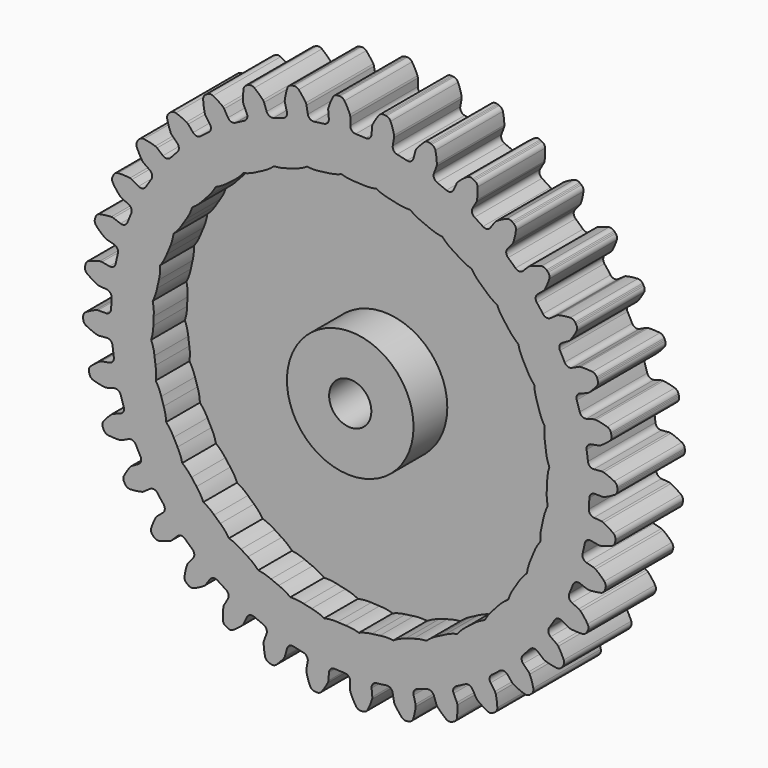
from build123d import *

# Parameters (mm, degrees)
F2_DEPTH = 12.7
F3_R     = 3.175
F4_DEPTH = 12.701
F5_T     = -6.35


with BuildPart() as f2:
    # F1 (on Front) → F2 (new body)
    with BuildSketch(Plane.XZ):
        with BuildLine():
            ThreePointArc((-3.2159719012, 36.6585852996), (-3.3999882129, 36.0632175449), (-3.9477642676, 35.766121331))
            ThreePointArc((-3.9477642676, 35.766121331), (-4.6967675633, 35.6754909179), (-5.443706067, 35.5691768535))
            ThreePointArc((-5.443706067, 35.5691768535), (-6.049711265, 35.7143748818), (-6.3815498887, 36.2418290459))
            Line((-6.3815498887, 36.2418290459), (-6.580178389, 37.3683072486))
            ThreePointArc((-6.580178389, 37.3683072486), (-6.6224915031, 37.520858425), (-6.6931472929, 37.6625271245))
            ThreePointArc((-6.6931472929, 37.6625271245), (-7.1925400532, 38.3850287688), (-7.7563603692, 39.0584590966))
            ThreePointArc((-7.7563603692, 39.0584590966), (-8.1103285962, 39.285403416), (-8.5301632138, 39.3085577628))
            Line((-8.5301632138, 39.3085577628), (-8.7064756263, 39.2723732346))
            Line((-8.7064756263, 39.2723732346), (-8.8815611808, 39.2306547082))
            ThreePointArc((-8.8815611808, 39.2306547082), (-9.2522751134, 39.0322399655), (-9.4771684585, 38.6769651238))
            ThreePointArc((-9.4771684585, 38.6769651238), (-9.7035592431, 37.8283492108), (-9.8508203978, 36.9624878435))
            ThreePointArc((-9.8508203978, 36.9624878435), (-9.85498451, 36.8042319718), (-9.8288623016, 36.648091359))
            Line((-9.8288623016, 36.648091359), (-9.5328105949, 35.5432113574))
            ThreePointArc((-9.5328105949, 35.5432113574), (-9.6106467597, 34.9249344795), (-10.0985106491, 34.537231511))
            ThreePointArc((-10.0985106491, 34.537231511), (-10.8203970957, 34.3179149202), (-11.5375266817, 34.0835114953))
            ThreePointArc((-11.5375266817, 34.0835114953), (-12.159538672, 34.121271941), (-12.5779273757, 34.5830897189))
            Line((-12.5779273757, 34.5830897189), (-12.9691491499, 35.6579627094))
            ThreePointArc((-12.9691491499, 35.6579627094), (-13.0373096666, 35.8008486955), (-13.1314925476, 35.92809588))
            ThreePointArc((-13.1314925476, 35.92809588), (-13.7487595036, 36.5529024581), (-14.4209540713, 37.1181954956))
            ThreePointArc((-14.4209540713, 37.1181954956), (-14.8089531931, 37.2802260833), (-15.2264302896, 37.2301251472))
            Line((-15.2264302896, 37.2301251472), (-15.393780743, 37.1638740142))
            Line((-15.393780743, 37.1638740142), (-15.5589620085, 37.0923859985))
            ThreePointArc((-15.5589620085, 37.0923859985), (-15.8895896049, 36.8326118228), (-16.049373486, 36.4436820846))
            ThreePointArc((-16.049373486, 36.4436820846), (-16.1249642791, 35.568646207), (-16.1196329573, 34.6903675883))
            ThreePointArc((-16.1196329573, 34.6903675883), (-16.0962529636, 34.5337928884), (-16.0434140774, 34.3845604762))
            Line((-16.0434140774, 34.3845604762), (-15.5599996625, 33.3478749239))
            ThreePointArc((-15.5599996625, 33.3478749239), (-15.5292906679, 32.7254749528), (-15.9424188947, 32.2589453883))
            ThreePointArc((-15.9424188947, 32.2589453883), (-16.6152543377, 31.9176064433), (-17.2807853863, 31.5622358874))
            ThreePointArc((-17.2807853863, 31.5622358874), (-17.8999046495, 31.4914114184), (-18.3921309042, 31.8735607107))
            Line((-18.3921309042, 31.8735607107), (-18.9640588766, 32.8641690171))
            ThreePointArc((-18.9640588766, 32.8641690171), (-19.0559957729, 32.9930482945), (-19.1708440461, 33.1020076227))
            ThreePointArc((-19.1708440461, 33.1020076227), (-19.8872298538, 33.6101347028), (-20.6473743814, 34.0501143072))
            ThreePointArc((-20.6473743814, 34.0501143072), (-21.057615241, 34.1423079457), (-21.4600499861, 34.0204740184))
            Line((-21.4600499861, 34.0204740184), (-21.6133536215, 33.9261692878))
            Line((-21.6133536215, 33.9261692878), (-21.7636116487, 33.8270839099))
            ThreePointArc((-21.7636116487, 33.8270839099), (-22.0441069568, 33.513843408), (-22.1339264215, 33.1030762067))
            ThreePointArc((-22.1339264215, 33.1030762067), (-22.056420435, 32.2282078868), (-21.8986586264, 31.3641980681))
            ThreePointArc((-21.8986586264, 31.3641980681), (-21.848444916, 31.214061983), (-21.7704948347, 31.0762721228))
            Line((-21.7704948347, 31.0762721228), (-21.1144060141, 30.1392801857))
            ThreePointArc((-21.1144060141, 30.1392801857), (-20.9760849374, 29.5316684296), (-21.3019248094, 29.0004875337))
            ThreePointArc((-21.3019248094, 29.0004875337), (-21.9052654844, 28.5474976458), (-22.4989761715, 28.0819577133))
            ThreePointArc((-22.4989761715, 28.0819577133), (-23.096391082, 27.9047002954), (-23.6474988421, 28.195569689))
            Line((-23.6474988421, 28.195569689), (-24.3827552706, 29.0718141792))
            ThreePointArc((-24.3827552706, 29.0718141792), (-24.4956750906, 29.1827708163), (-24.6276991491, 29.2701316141))
            ThreePointArc((-24.6276991491, 29.2701316141), (-25.4214367882, 29.6461400122), (-26.2464346689, 29.9474376257))
            ThreePointArc((-26.2464346689, 29.9474376257), (-26.6664523054, 29.9669930581), (-27.041616923, 29.7771280018))
            Line((-27.041616923, 29.7771280018), (-27.1762156871, 29.6576350749))
            Line((-27.1762156871, 29.657635075), (-27.306984962, 29.533962994))
            ThreePointArc((-27.306984962, 29.533962994), (-27.5288252737, 29.1767738201), (-27.5459512029, 28.7566501092))
            ThreePointArc((-27.5459512029, 28.7566501092), (-27.3177034171, 27.9085317782), (-27.0123046343, 27.0850432606))
            ThreePointArc((-27.0123046343, 27.0850432606), (-26.9367829255, 26.9459075993), (-26.836090123, 26.8237469663))
            Line((-26.836090123, 26.8237469663), (-26.0272618233, 26.0149186702))
            ThreePointArc((-26.0272618233, 26.0149186702), (-25.7855314805, 25.4405571049), (-26.014182518, 24.8608645404))
            ThreePointArc((-26.014182518, 24.8608645404), (-26.529696224, 24.309987578), (-27.0335469508, 23.7484234643))
            ThreePointArc((-27.0335469508, 23.7484234643), (-27.5911053588, 23.4701189743), (-28.1843494938, 23.6608705501))
            Line((-28.1843494938, 23.6608705501), (-29.060593984, 24.3961269786))
            ThreePointArc((-29.060593984, 24.3961269786), (-29.191065716, 24.4857896141), (-29.3362540758, 24.5488974679))
            ThreePointArc((-29.3362540758, 24.5488974679), (-30.1832262297, 24.7813623589), (-31.0480103204, 24.9348232062))
            ThreePointArc((-31.0480103204, 24.9348232062), (-31.4650427104, 24.8811462504), (-31.8015380134, 24.6290190187))
            Line((-31.8015380134, 24.6290190187), (-31.9133421909, 24.4879686279))
            Line((-31.9133421908, 24.4879686279), (-32.0206493551, 24.3434675574))
            ThreePointArc((-32.0206493551, 24.3434675574), (-32.1770941649, 23.9531827238), (-32.121006196, 23.5364677497))
            ThreePointArc((-32.121006196, 23.5364677497), (-31.7489518043, 22.7408690539), (-31.3051954349, 21.9829231194))
            ThreePointArc((-31.3051954349, 21.9829231194), (-31.2066604164, 21.8590154485), (-31.0862843925, 21.7561958316))
            Line((-31.0862843925, 21.7561958316), (-30.1492924525, 21.1001070151))
            ThreePointArc((-30.1492924525, 21.1001070151), (-29.8114976976, 20.5764473261), (-29.9360124547, 19.9658567582))
            ThreePointArc((-29.9360124547, 19.9658567582), (-30.3480355684, 19.3338308391), (-30.7467170856, 18.6933053855))
            ThreePointArc((-30.7467170856, 18.6933053855), (-31.247477861, 18.3224099647), (-31.8648329481, 18.4072478324))
            Line((-31.8648329481, 18.4072478324), (-32.8554412546, 18.9791758048))
            ThreePointArc((-32.8554412546, 18.9791758048), (-32.999500581, 19.0448200848), (-33.1534417672, 19.0817574945))
            ThreePointArc((-33.1534417672, 19.0817574945), (-34.0279136157, 19.1636155504), (-34.9062078893, 19.1645768011))
            ThreePointArc((-34.9062078893, 19.1645768011), (-35.3075837147, 19.0392984043), (-35.5951854636, 18.7325697557))
            Line((-35.5951854636, 18.7325697557), (-35.6807979411, 18.5742476455))
            Line((-35.6807979411, 18.5742476456), (-35.7613825208, 18.4133081775))
            ThreePointArc((-35.7613825208, 18.4133081775), (-35.8476783323, 18.0017862913), (-35.7200806698, 17.6011417277))
            ThreePointArc((-35.7200806698, 17.6011417277), (-35.2155243566, 16.8822365309), (-34.6468937133, 16.2128629831))
            ThreePointArc((-34.6468937133, 16.2128629831), (-34.528339322, 16.1079481746), (-34.3919376412, 16.0275936959))
            Line((-34.3919376412, 16.0275936959), (-33.3552520868, 15.5441792855))
            ThreePointArc((-33.3552520868, 15.5441792855), (-32.9316566425, 15.0871326075), (-32.9482518013, 14.4641965217))
            ThreePointArc((-32.9482518013, 14.4641965217), (-33.244265209, 13.7702254335), (-33.5256637803, 13.070200682))
            ThreePointArc((-33.5256637803, 13.070200682), (-33.9544115604, 12.6179837998), (-34.5771195777, 12.5943302038))
            Line((-34.5771195777, 12.5943302038), (-35.6519925682, 12.985551978))
            ThreePointArc((-35.6519925682, 12.985551978), (-35.8052623194, 13.0251833344), (-35.963278907, 13.0348279754))
            ThreePointArc((-35.963278907, 13.0348279754), (-36.8386800654, 12.9635919806), (-37.7037979949, 12.8120244277))
            ThreePointArc((-37.7037979949, 12.8120244277), (-38.0773216543, 12.6189511106), (-38.3072912156, 12.2669408398))
            Line((-38.3072912156, 12.2669408398), (-38.3641107012, 12.0961575475))
            Line((-38.3641107012, 12.0961575475), (-38.4155241748, 11.9236697462))
            ThreePointArc((-38.4155241748, 11.9236697462), (-38.4290489334, 11.5034146918), (-38.2338185677, 11.1310139208))
            ThreePointArc((-38.2338185677, 11.1310139208), (-37.6120910213, 10.5106457937), (-36.9358636584, 9.9501832091))
            ThreePointArc((-36.9358636584, 9.9501832091), (-36.8008921094, 9.8674490463), (-36.6526092679, 9.812001236))
            Line((-36.6526092679, 9.812001236), (-35.5477292651, 9.5159495341))
            ThreePointArc((-35.5477292651, 9.5159495341), (-35.0512038646, 9.139402999), (-34.9593751895, 8.523048993))
            ThreePointArc((-34.9593751895, 8.523048993), (-35.1303846736, 7.7882186962), (-35.2859501459, 7.0499645445))
            ThreePointArc((-35.2859501459, 7.0499645445), (-35.6296576463, 6.5301665822), (-36.2387979258, 6.3987402251))
            Line((-36.2387979258, 6.3987402251), (-37.3652761285, 6.5973687254))
            ThreePointArc((-37.3652761285, 6.5973687254), (-37.5230992806, 6.6097829795), (-37.6803900155, 6.5918418042))
            ThreePointArc((-37.6803900155, 6.5918418042), (-38.5301218626, 6.3696762284), (-39.3557772775, 6.0701851752))
            ThreePointArc((-39.3557772775, 6.0701851752), (-39.6900994435, 5.8151833729), (-39.8554493084, 5.4285871338))
            Line((-39.8554493084, 5.4285871338), (-39.8817493709, 5.2505318234))
            Line((-39.8817493709, 5.2505318234), (-39.9024295659, 5.0717366434))
            ThreePointArc((-39.9024295659, 5.0717366434), (-39.8427723287, 4.6555176578), (-39.5858412357, 4.3226758886))
            ThreePointArc((-39.5858412357, 4.3226758886), (-38.865833333, 3.8196944027), (-38.1025560767, 3.3851721534))
            ThreePointArc((-38.1025560767, 3.3851721534), (-37.9552684122, 3.3271324719), (-37.799609909, 3.2982760837))
            Line((-37.799609909, 3.2982760837), (-36.6601066776, 3.1985824714))
            ThreePointArc((-36.6601066776, 3.1985824714), (-36.105737994, 2.9139772552), (-35.9082756529, 2.3229329336))
            ThreePointArc((-35.9082756529, 2.3229329336), (-35.9490851768, 1.5695708749), (-35.9740907719, 0.8155188018))
            ThreePointArc((-35.9740907719, 0.8155188018), (-36.2223146141, 0.2439335575), (-36.7993787366, 0.0087277625))
            Line((-36.7993787366, 0.0087277625), (-37.9432346814, 0.0087277625))
            ThreePointArc((-37.9432346814, 0.0087277625), (-38.1008158578, -0.0064522866), (-38.2526015405, -0.0514341446))
            ThreePointArc((-38.2526015405, -0.0514341446), (-39.0508454042, -0.4177789128), (-39.8119511825, -0.8560935821))
            ThreePointArc((-39.8119511825, -0.8560935821), (-40.0969136453, -1.1652757689), (-40.1926197418, -1.5747114452))
            Line((-40.1926197418, -1.5747114452), (-40.187601267, -1.7546286533))
            Line((-40.187601267, -1.7546286533), (-40.1769198263, -1.934298611))
            ThreePointArc((-40.1769198263, -1.934298611), (-40.0458932482, -2.3338349244), (-39.7350681491, -2.6170044632))
            ThreePointArc((-39.7350681491, -2.6170044632), (-38.9386569659, -2.9873164699), (-38.1115216095, -3.2826956452))
            ThreePointArc((-38.1115216095, -3.2826956452), (-37.9563930906, -3.314277339), (-37.7980885306, -3.3156655185))
            Line((-37.7980885306, -3.3156655185), (-36.6585852996, -3.2159719012))
            ThreePointArc((-36.6585852996, -3.2159719012), (-36.0632175449, -3.3999882129), (-35.766121331, -3.9477642676))
            ThreePointArc((-35.766121331, -3.9477642676), (-35.6754909179, -4.6967675633), (-35.5691768535, -5.443706067))
            ThreePointArc((-35.5691768535, -5.443706067), (-35.7143748818, -6.049711265), (-36.2418290459, -6.3815498887))
            Line((-36.2418290459, -6.3815498887), (-37.3683072486, -6.580178389))
            ThreePointArc((-37.3683072486, -6.580178389), (-37.520858425, -6.6224915031), (-37.6625271245, -6.6931472929))
            ThreePointArc((-37.6625271245, -6.6931472929), (-38.3850287688, -7.1925400532), (-39.0584590966, -7.7563603692))
            ThreePointArc((-39.0584590966, -7.7563603692), (-39.285403416, -8.1103285962), (-39.3085577628, -8.5301632138))
            Line((-39.3085577628, -8.5301632138), (-39.2723732346, -8.7064756263))
            Line((-39.2723732346, -8.7064756263), (-39.2306547082, -8.8815611808))
            ThreePointArc((-39.2306547082, -8.8815611808), (-39.0322399655, -9.2522751134), (-38.6769651238, -9.4771684585))
            ThreePointArc((-38.6769651238, -9.4771684585), (-37.8283492108, -9.7035592431), (-36.9624878435, -9.8508203978))
            ThreePointArc((-36.9624878435, -9.8508203978), (-36.8042319718, -9.85498451), (-36.648091359, -9.8288623016))
            Line((-36.648091359, -9.8288623016), (-35.5432113574, -9.5328105949))
            ThreePointArc((-35.5432113574, -9.5328105949), (-34.9249344795, -9.6106467597), (-34.537231511, -10.0985106491))
            ThreePointArc((-34.537231511, -10.0985106491), (-34.3179149202, -10.8203970957), (-34.0835114953, -11.5375266817))
            ThreePointArc((-34.0835114953, -11.5375266817), (-34.121271941, -12.159538672), (-34.5830897189, -12.5779273757))
            Line((-34.5830897189, -12.5779273757), (-35.6579627094, -12.9691491499))
            ThreePointArc((-35.6579627094, -12.9691491499), (-35.8008486955, -13.0373096666), (-35.92809588, -13.1314925476))
            ThreePointArc((-35.92809588, -13.1314925476), (-36.5529024581, -13.7487595036), (-37.1181954956, -14.4209540713))
            ThreePointArc((-37.1181954956, -14.4209540713), (-37.2802260833, -14.8089531931), (-37.2301251472, -15.2264302896))
            Line((-37.2301251472, -15.2264302896), (-37.1638740142, -15.393780743))
            Line((-37.1638740142, -15.393780743), (-37.0923859985, -15.5589620085))
            ThreePointArc((-37.0923859985, -15.5589620085), (-36.8326118228, -15.8895896049), (-36.4436820846, -16.049373486))
            ThreePointArc((-36.4436820846, -16.049373486), (-35.568646207, -16.1249642791), (-34.6903675883, -16.1196329573))
            ThreePointArc((-34.6903675883, -16.1196329573), (-34.5337928884, -16.0962529636), (-34.3845604762, -16.0434140774))
            Line((-34.3845604762, -16.0434140774), (-33.3478749239, -15.5599996625))
            ThreePointArc((-33.3478749239, -15.5599996625), (-32.7254749528, -15.5292906679), (-32.2589453883, -15.9424188947))
            ThreePointArc((-32.2589453883, -15.9424188947), (-31.9176064433, -16.6152543377), (-31.5622358874, -17.2807853863))
            ThreePointArc((-31.5622358874, -17.2807853863), (-31.4914114184, -17.8999046495), (-31.8735607107, -18.3921309042))
            Line((-31.8735607107, -18.3921309042), (-32.8641690171, -18.9640588766))
            ThreePointArc((-32.8641690171, -18.9640588766), (-32.9930482945, -19.0559957729), (-33.1020076227, -19.1708440461))
            ThreePointArc((-33.1020076227, -19.1708440461), (-33.6101347028, -19.8872298538), (-34.0501143072, -20.6473743814))
            ThreePointArc((-34.0501143072, -20.6473743814), (-34.1423079457, -21.057615241), (-34.0204740184, -21.4600499861))
            Line((-34.0204740184, -21.4600499861), (-33.9261692878, -21.6133536215))
            Line((-33.9261692878, -21.6133536215), (-33.8270839099, -21.7636116487))
            ThreePointArc((-33.8270839099, -21.7636116487), (-33.513843408, -22.0441069568), (-33.1030762067, -22.1339264215))
            ThreePointArc((-33.1030762067, -22.1339264215), (-32.2282078868, -22.056420435), (-31.3641980681, -21.8986586264))
            ThreePointArc((-31.3641980681, -21.8986586264), (-31.214061983, -21.848444916), (-31.0762721228, -21.7704948347))
            Line((-31.0762721228, -21.7704948347), (-30.1392801857, -21.1144060141))
            ThreePointArc((-30.1392801857, -21.1144060141), (-29.5316684296, -20.9760849374), (-29.0004875337, -21.3019248094))
            ThreePointArc((-29.0004875337, -21.3019248094), (-28.5474976458, -21.9052654844), (-28.0819577133, -22.4989761715))
            ThreePointArc((-28.0819577133, -22.4989761715), (-27.9047002954, -23.096391082), (-28.195569689, -23.6474988421))
            Line((-28.195569689, -23.6474988421), (-29.0718141792, -24.3827552706))
            ThreePointArc((-29.0718141792, -24.3827552706), (-29.1827708163, -24.4956750906), (-29.2701316141, -24.6276991491))
            ThreePointArc((-29.2701316141, -24.6276991491), (-29.6461400122, -25.4214367882), (-29.9474376257, -26.2464346689))
            ThreePointArc((-29.9474376257, -26.2464346689), (-29.9669930581, -26.6664523054), (-29.7771280018, -27.041616923))
            Line((-29.7771280018, -27.041616923), (-29.6576350749, -27.1762156871))
            Line((-29.657635075, -27.1762156871), (-29.533962994, -27.306984962))
            ThreePointArc((-29.533962994, -27.306984962), (-29.1767738201, -27.5288252737), (-28.7566501092, -27.5459512029))
            ThreePointArc((-28.7566501092, -27.5459512029), (-27.9085317782, -27.3177034171), (-27.0850432606, -27.0123046343))
            ThreePointArc((-27.0850432606, -27.0123046343), (-26.9459075993, -26.9367829255), (-26.8237469663, -26.836090123))
            Line((-26.8237469663, -26.836090123), (-26.0149186702, -26.0272618233))
            ThreePointArc((-26.0149186702, -26.0272618233), (-25.4405571049, -25.7855314805), (-24.8608645404, -26.014182518))
            ThreePointArc((-24.8608645404, -26.014182518), (-24.309987578, -26.529696224), (-23.7484234643, -27.0335469508))
            ThreePointArc((-23.7484234643, -27.0335469508), (-23.4701189743, -27.5911053588), (-23.6608705501, -28.1843494938))
            Line((-23.6608705501, -28.1843494938), (-24.3961269786, -29.060593984))
            ThreePointArc((-24.3961269786, -29.060593984), (-24.4857896141, -29.191065716), (-24.5488974679, -29.3362540758))
            ThreePointArc((-24.5488974679, -29.3362540758), (-24.7813623589, -30.1832262297), (-24.9348232062, -31.0480103204))
            ThreePointArc((-24.9348232062, -31.0480103204), (-24.8811462504, -31.4650427104), (-24.6290190187, -31.8015380134))
            Line((-24.6290190187, -31.8015380134), (-24.4879686279, -31.9133421909))
            Line((-24.4879686279, -31.9133421908), (-24.3434675574, -32.0206493551))
            ThreePointArc((-24.3434675574, -32.0206493551), (-23.9531827238, -32.1770941649), (-23.5364677497, -32.121006196))
            ThreePointArc((-23.5364677497, -32.121006196), (-22.7408690539, -31.7489518043), (-21.9829231194, -31.3051954349))
            ThreePointArc((-21.9829231194, -31.3051954349), (-21.8590154485, -31.2066604164), (-21.7561958316, -31.0862843925))
            Line((-21.7561958316, -31.0862843925), (-21.1001070151, -30.1492924525))
            ThreePointArc((-21.1001070151, -30.1492924525), (-20.5764473261, -29.8114976976), (-19.9658567582, -29.9360124547))
            ThreePointArc((-19.9658567582, -29.9360124547), (-19.3338308391, -30.3480355684), (-18.6933053855, -30.7467170856))
            ThreePointArc((-18.6933053855, -30.7467170856), (-18.3224099647, -31.247477861), (-18.4072478324, -31.8648329481))
            Line((-18.4072478324, -31.8648329481), (-18.9791758048, -32.8554412546))
            ThreePointArc((-18.9791758048, -32.8554412546), (-19.0448200848, -32.999500581), (-19.0817574945, -33.1534417672))
            ThreePointArc((-19.0817574945, -33.1534417672), (-19.1636155504, -34.0279136157), (-19.1645768011, -34.9062078893))
            ThreePointArc((-19.1645768011, -34.9062078893), (-19.0392984043, -35.3075837147), (-18.7325697557, -35.5951854636))
            Line((-18.7325697557, -35.5951854636), (-18.5742476455, -35.6807979411))
            Line((-18.5742476456, -35.6807979411), (-18.4133081775, -35.7613825208))
            ThreePointArc((-18.4133081775, -35.7613825208), (-18.0017862913, -35.8476783323), (-17.6011417277, -35.7200806698))
            ThreePointArc((-17.6011417277, -35.7200806698), (-16.8822365309, -35.2155243566), (-16.2128629831, -34.6468937133))
            ThreePointArc((-16.2128629831, -34.6468937133), (-16.1079481746, -34.528339322), (-16.0275936959, -34.3919376412))
            Line((-16.0275936959, -34.3919376412), (-15.5441792855, -33.3552520868))
            ThreePointArc((-15.5441792855, -33.3552520868), (-15.0871326075, -32.9316566425), (-14.4641965217, -32.9482518013))
            ThreePointArc((-14.4641965217, -32.9482518013), (-13.7702254335, -33.244265209), (-13.070200682, -33.5256637803))
            ThreePointArc((-13.070200682, -33.5256637803), (-12.6179837998, -33.9544115604), (-12.5943302038, -34.5771195777))
            Line((-12.5943302038, -34.5771195777), (-12.985551978, -35.6519925682))
            ThreePointArc((-12.985551978, -35.6519925682), (-13.0251833344, -35.8052623194), (-13.0348279754, -35.963278907))
            ThreePointArc((-13.0348279754, -35.963278907), (-12.9635919806, -36.8386800654), (-12.8120244277, -37.7037979949))
            ThreePointArc((-12.8120244277, -37.7037979949), (-12.6189511106, -38.0773216543), (-12.2669408398, -38.3072912156))
            Line((-12.2669408398, -38.3072912156), (-12.0961575475, -38.3641107012))
            Line((-12.0961575475, -38.3641107012), (-11.9236697462, -38.4155241748))
            ThreePointArc((-11.9236697462, -38.4155241748), (-11.5034146918, -38.4290489334), (-11.1310139208, -38.2338185677))
            ThreePointArc((-11.1310139208, -38.2338185677), (-10.5106457937, -37.6120910213), (-9.9501832091, -36.9358636584))
            ThreePointArc((-9.9501832091, -36.9358636584), (-9.8674490463, -36.8008921094), (-9.812001236, -36.6526092679))
            Line((-9.812001236, -36.6526092679), (-9.5159495341, -35.5477292651))
            ThreePointArc((-9.5159495341, -35.5477292651), (-9.139402999, -35.0512038646), (-8.523048993, -34.9593751895))
            ThreePointArc((-8.523048993, -34.9593751895), (-7.7882186962, -35.1303846736), (-7.0499645445, -35.2859501459))
            ThreePointArc((-7.0499645445, -35.2859501459), (-6.5301665822, -35.6296576463), (-6.3987402251, -36.2387979258))
            Line((-6.3987402251, -36.2387979258), (-6.5973687254, -37.3652761285))
            ThreePointArc((-6.5973687254, -37.3652761285), (-6.6097829795, -37.5230992806), (-6.5918418042, -37.6803900155))
            ThreePointArc((-6.5918418042, -37.6803900155), (-6.3696762284, -38.5301218626), (-6.0701851752, -39.3557772775))
            ThreePointArc((-6.0701851752, -39.3557772775), (-5.8151833729, -39.6900994435), (-5.4285871338, -39.8554493084))
            Line((-5.4285871338, -39.8554493084), (-5.2505318234, -39.8817493709))
            Line((-5.2505318234, -39.8817493709), (-5.0717366434, -39.9024295659))
            ThreePointArc((-5.0717366434, -39.9024295659), (-4.6555176578, -39.8427723287), (-4.3226758886, -39.5858412357))
            ThreePointArc((-4.3226758886, -39.5858412357), (-3.8196944027, -38.865833333), (-3.3851721534, -38.1025560767))
            ThreePointArc((-3.3851721534, -38.1025560767), (-3.3271324719, -37.9552684122), (-3.2982760837, -37.799609909))
            Line((-3.2982760837, -37.799609909), (-3.1985824714, -36.6601066776))
            ThreePointArc((-3.1985824714, -36.6601066776), (-2.9139772552, -36.105737994), (-2.3229329336, -35.9082756529))
            ThreePointArc((-2.3229329336, -35.9082756529), (-1.5695708749, -35.9490851768), (-0.8155188018, -35.9740907719))
            ThreePointArc((-0.8155188018, -35.9740907719), (-0.2439335575, -36.2223146141), (-0.0087277625, -36.7993787366))
            Line((-0.0087277625, -36.7993787366), (-0.0087277625, -37.9432346814))
            ThreePointArc((-0.0087277625, -37.9432346814), (0.0064522866, -38.1008158578), (0.0514341446, -38.2526015405))
            ThreePointArc((0.0514341446, -38.2526015405), (0.4177789128, -39.0508454042), (0.8560935821, -39.8119511825))
            ThreePointArc((0.8560935821, -39.8119511825), (1.1652757689, -40.0969136453), (1.5747114452, -40.1926197418))
            Line((1.5747114452, -40.1926197418), (1.7546286533, -40.187601267))
            Line((1.7546286533, -40.187601267), (1.934298611, -40.1769198263))
            ThreePointArc((1.934298611, -40.1769198263), (2.3338349244, -40.0458932482), (2.6170044632, -39.7350681491))
            ThreePointArc((2.6170044632, -39.7350681491), (2.9873164699, -38.9386569659), (3.2826956452, -38.1115216095))
            ThreePointArc((3.2826956452, -38.1115216095), (3.314277339, -37.9563930906), (3.3156655185, -37.7980885306))
            Line((3.3156655185, -37.7980885306), (3.2159719012, -36.6585852996))
            ThreePointArc((3.2159719012, -36.6585852996), (3.3999882129, -36.0632175449), (3.9477642676, -35.766121331))
            ThreePointArc((3.9477642676, -35.766121331), (4.6967675633, -35.6754909179), (5.443706067, -35.5691768535))
            ThreePointArc((5.443706067, -35.5691768535), (6.049711265, -35.7143748818), (6.3815498887, -36.2418290459))
            Line((6.3815498887, -36.2418290459), (6.580178389, -37.3683072486))
            ThreePointArc((6.580178389, -37.3683072486), (6.6224915031, -37.520858425), (6.6931472929, -37.6625271245))
            ThreePointArc((6.6931472929, -37.6625271245), (7.1925400532, -38.3850287688), (7.7563603692, -39.0584590966))
            ThreePointArc((7.7563603692, -39.0584590966), (8.1103285962, -39.285403416), (8.5301632138, -39.3085577628))
            Line((8.5301632138, -39.3085577628), (8.7064756263, -39.2723732346))
            Line((8.7064756263, -39.2723732346), (8.8815611808, -39.2306547082))
            ThreePointArc((8.8815611808, -39.2306547082), (9.2522751134, -39.0322399655), (9.4771684585, -38.6769651238))
            ThreePointArc((9.4771684585, -38.6769651238), (9.7035592431, -37.8283492108), (9.8508203978, -36.9624878435))
            ThreePointArc((9.8508203978, -36.9624878435), (9.85498451, -36.8042319718), (9.8288623016, -36.648091359))
            Line((9.8288623016, -36.648091359), (9.5328105949, -35.5432113574))
            ThreePointArc((9.5328105949, -35.5432113574), (9.6106467597, -34.9249344795), (10.0985106491, -34.537231511))
            ThreePointArc((10.0985106491, -34.537231511), (10.8203970957, -34.3179149202), (11.5375266817, -34.0835114953))
            ThreePointArc((11.5375266817, -34.0835114953), (12.159538672, -34.121271941), (12.5779273757, -34.5830897189))
            Line((12.5779273757, -34.5830897189), (12.9691491499, -35.6579627094))
            ThreePointArc((12.9691491499, -35.6579627094), (13.0373096666, -35.8008486955), (13.1314925476, -35.92809588))
            ThreePointArc((13.1314925476, -35.92809588), (13.7487595036, -36.5529024581), (14.4209540713, -37.1181954956))
            ThreePointArc((14.4209540713, -37.1181954956), (14.8089531931, -37.2802260833), (15.2264302896, -37.2301251472))
            Line((15.2264302896, -37.2301251472), (15.393780743, -37.1638740142))
            Line((15.393780743, -37.1638740142), (15.5589620085, -37.0923859985))
            ThreePointArc((15.5589620085, -37.0923859985), (15.8895896049, -36.8326118228), (16.049373486, -36.4436820846))
            ThreePointArc((16.049373486, -36.4436820846), (16.1249642791, -35.568646207), (16.1196329573, -34.6903675883))
            ThreePointArc((16.1196329573, -34.6903675883), (16.0962529636, -34.5337928884), (16.0434140774, -34.3845604762))
            Line((16.0434140774, -34.3845604762), (15.5599996625, -33.3478749239))
            ThreePointArc((15.5599996625, -33.3478749239), (15.5292906679, -32.7254749528), (15.9424188947, -32.2589453883))
            ThreePointArc((15.9424188947, -32.2589453883), (16.6152543377, -31.9176064433), (17.2807853863, -31.5622358874))
            ThreePointArc((17.2807853863, -31.5622358874), (17.8999046495, -31.4914114184), (18.3921309042, -31.8735607107))
            Line((18.3921309042, -31.8735607107), (18.9640588766, -32.8641690171))
            ThreePointArc((18.9640588766, -32.8641690171), (19.0559957729, -32.9930482945), (19.1708440461, -33.1020076227))
            ThreePointArc((19.1708440461, -33.1020076227), (19.8872298538, -33.6101347028), (20.6473743814, -34.0501143072))
            ThreePointArc((20.6473743814, -34.0501143072), (21.057615241, -34.1423079457), (21.4600499861, -34.0204740184))
            Line((21.4600499861, -34.0204740184), (21.6133536215, -33.9261692878))
            Line((21.6133536215, -33.9261692878), (21.7636116487, -33.8270839099))
            ThreePointArc((21.7636116487, -33.8270839099), (22.0441069568, -33.513843408), (22.1339264215, -33.1030762067))
            ThreePointArc((22.1339264215, -33.1030762067), (22.056420435, -32.2282078868), (21.8986586264, -31.3641980681))
            ThreePointArc((21.8986586264, -31.3641980681), (21.848444916, -31.214061983), (21.7704948347, -31.0762721228))
            Line((21.7704948347, -31.0762721228), (21.1144060141, -30.1392801857))
            ThreePointArc((21.1144060141, -30.1392801857), (20.9760849374, -29.5316684296), (21.3019248094, -29.0004875337))
            ThreePointArc((21.3019248094, -29.0004875337), (21.9052654844, -28.5474976458), (22.4989761715, -28.0819577133))
            ThreePointArc((22.4989761715, -28.0819577133), (23.096391082, -27.9047002954), (23.6474988421, -28.195569689))
            Line((23.6474988421, -28.195569689), (24.3827552706, -29.0718141792))
            ThreePointArc((24.3827552706, -29.0718141792), (24.4956750906, -29.1827708163), (24.6276991491, -29.2701316141))
            ThreePointArc((24.6276991491, -29.2701316141), (25.4214367882, -29.6461400122), (26.2464346689, -29.9474376257))
            ThreePointArc((26.2464346689, -29.9474376257), (26.6664523054, -29.9669930581), (27.041616923, -29.7771280018))
            Line((27.041616923, -29.7771280018), (27.1762156871, -29.6576350749))
            Line((27.1762156871, -29.657635075), (27.306984962, -29.533962994))
            ThreePointArc((27.306984962, -29.533962994), (27.5288252737, -29.1767738201), (27.5459512029, -28.7566501092))
            ThreePointArc((27.5459512029, -28.7566501092), (27.3177034171, -27.9085317782), (27.0123046343, -27.0850432606))
            ThreePointArc((27.0123046343, -27.0850432606), (26.9367829255, -26.9459075993), (26.836090123, -26.8237469663))
            Line((26.836090123, -26.8237469663), (26.0272618233, -26.0149186702))
            ThreePointArc((26.0272618233, -26.0149186702), (25.7855314805, -25.4405571049), (26.014182518, -24.8608645404))
            ThreePointArc((26.014182518, -24.8608645404), (26.529696224, -24.309987578), (27.0335469508, -23.7484234643))
            ThreePointArc((27.0335469508, -23.7484234643), (27.5911053588, -23.4701189743), (28.1843494938, -23.6608705501))
            Line((28.1843494938, -23.6608705501), (29.060593984, -24.3961269786))
            ThreePointArc((29.060593984, -24.3961269786), (29.191065716, -24.4857896141), (29.3362540758, -24.5488974679))
            ThreePointArc((29.3362540758, -24.5488974679), (30.1832262297, -24.7813623589), (31.0480103204, -24.9348232062))
            ThreePointArc((31.0480103204, -24.9348232062), (31.4650427104, -24.8811462504), (31.8015380134, -24.6290190187))
            Line((31.8015380134, -24.6290190187), (31.9133421909, -24.4879686279))
            Line((31.9133421908, -24.4879686279), (32.0206493551, -24.3434675574))
            ThreePointArc((32.0206493551, -24.3434675574), (32.1770941649, -23.9531827238), (32.121006196, -23.5364677497))
            ThreePointArc((32.121006196, -23.5364677497), (31.7489518043, -22.7408690539), (31.3051954349, -21.9829231194))
            ThreePointArc((31.3051954349, -21.9829231194), (31.2066604164, -21.8590154485), (31.0862843925, -21.7561958316))
            Line((31.0862843925, -21.7561958316), (30.1492924525, -21.1001070151))
            ThreePointArc((30.1492924525, -21.1001070151), (29.8114976976, -20.5764473261), (29.9360124547, -19.9658567582))
            ThreePointArc((29.9360124547, -19.9658567582), (30.3480355684, -19.3338308391), (30.7467170856, -18.6933053855))
            ThreePointArc((30.7467170856, -18.6933053855), (31.247477861, -18.3224099647), (31.8648329481, -18.4072478324))
            Line((31.8648329481, -18.4072478324), (32.8554412546, -18.9791758048))
            ThreePointArc((32.8554412546, -18.9791758048), (32.999500581, -19.0448200848), (33.1534417672, -19.0817574945))
            ThreePointArc((33.1534417672, -19.0817574945), (34.0279136157, -19.1636155504), (34.9062078893, -19.1645768011))
            ThreePointArc((34.9062078893, -19.1645768011), (35.3075837147, -19.0392984043), (35.5951854636, -18.7325697557))
            Line((35.5951854636, -18.7325697557), (35.6807979411, -18.5742476455))
            Line((35.6807979411, -18.5742476456), (35.7613825208, -18.4133081775))
            ThreePointArc((35.7613825208, -18.4133081775), (35.8476783323, -18.0017862913), (35.7200806698, -17.6011417277))
            ThreePointArc((35.7200806698, -17.6011417277), (35.2155243566, -16.8822365309), (34.6468937133, -16.2128629831))
            ThreePointArc((34.6468937133, -16.2128629831), (34.528339322, -16.1079481746), (34.3919376412, -16.0275936959))
            Line((34.3919376412, -16.0275936959), (33.3552520868, -15.5441792855))
            ThreePointArc((33.3552520868, -15.5441792855), (32.9316566425, -15.0871326075), (32.9482518013, -14.4641965217))
            ThreePointArc((32.9482518013, -14.4641965217), (33.244265209, -13.7702254335), (33.5256637803, -13.070200682))
            ThreePointArc((33.5256637803, -13.070200682), (33.9544115604, -12.6179837998), (34.5771195777, -12.5943302038))
            Line((34.5771195777, -12.5943302038), (35.6519925682, -12.985551978))
            ThreePointArc((35.6519925682, -12.985551978), (35.8052623194, -13.0251833344), (35.963278907, -13.0348279754))
            ThreePointArc((35.963278907, -13.0348279754), (36.8386800654, -12.9635919806), (37.7037979949, -12.8120244277))
            ThreePointArc((37.7037979949, -12.8120244277), (38.0773216543, -12.6189511106), (38.3072912156, -12.2669408398))
            Line((38.3072912156, -12.2669408398), (38.3641107012, -12.0961575475))
            Line((38.3641107012, -12.0961575475), (38.4155241748, -11.9236697462))
            ThreePointArc((38.4155241748, -11.9236697462), (38.4290489334, -11.5034146918), (38.2338185677, -11.1310139208))
            ThreePointArc((38.2338185677, -11.1310139208), (37.6120910213, -10.5106457937), (36.9358636584, -9.9501832091))
            ThreePointArc((36.9358636584, -9.9501832091), (36.8008921094, -9.8674490463), (36.6526092679, -9.812001236))
            Line((36.6526092679, -9.812001236), (35.5477292651, -9.5159495341))
            ThreePointArc((35.5477292651, -9.5159495341), (35.0512038646, -9.139402999), (34.9593751895, -8.523048993))
            ThreePointArc((34.9593751895, -8.523048993), (35.1303846736, -7.7882186962), (35.2859501459, -7.0499645445))
            ThreePointArc((35.2859501459, -7.0499645445), (35.6296576463, -6.5301665822), (36.2387979258, -6.3987402251))
            Line((36.2387979258, -6.3987402251), (37.3652761285, -6.5973687254))
            ThreePointArc((37.3652761285, -6.5973687254), (37.5230992806, -6.6097829795), (37.6803900155, -6.5918418042))
            ThreePointArc((37.6803900155, -6.5918418042), (38.5301218626, -6.3696762284), (39.3557772775, -6.0701851752))
            ThreePointArc((39.3557772775, -6.0701851752), (39.6900994435, -5.8151833729), (39.8554493084, -5.4285871338))
            Line((39.8554493084, -5.4285871338), (39.8817493709, -5.2505318234))
            Line((39.8817493709, -5.2505318234), (39.9024295659, -5.0717366434))
            ThreePointArc((39.9024295659, -5.0717366434), (39.8427723287, -4.6555176578), (39.5858412357, -4.3226758886))
            ThreePointArc((39.5858412357, -4.3226758886), (38.865833333, -3.8196944027), (38.1025560767, -3.3851721534))
            ThreePointArc((38.1025560767, -3.3851721534), (37.9552684122, -3.3271324719), (37.799609909, -3.2982760837))
            Line((37.799609909, -3.2982760837), (36.6601066776, -3.1985824714))
            ThreePointArc((36.6601066776, -3.1985824714), (36.105737994, -2.9139772552), (35.9082756529, -2.3229329336))
            ThreePointArc((35.9082756529, -2.3229329336), (35.9490851768, -1.5695708749), (35.9740907719, -0.8155188018))
            ThreePointArc((35.9740907719, -0.8155188018), (36.2223146141, -0.2439335575), (36.7993787366, -0.0087277625))
            Line((36.7993787366, -0.0087277625), (37.9432346814, -0.0087277625))
            ThreePointArc((37.9432346814, -0.0087277625), (38.1008158578, 0.0064522866), (38.2526015405, 0.0514341446))
            ThreePointArc((38.2526015405, 0.0514341446), (39.0508454042, 0.4177789128), (39.8119511825, 0.8560935821))
            ThreePointArc((39.8119511825, 0.8560935821), (40.0969136453, 1.1652757689), (40.1926197418, 1.5747114452))
            Line((40.1926197418, 1.5747114452), (40.187601267, 1.7546286533))
            Line((40.187601267, 1.7546286533), (40.1769198263, 1.934298611))
            ThreePointArc((40.1769198263, 1.934298611), (40.0458932482, 2.3338349244), (39.7350681491, 2.6170044632))
            ThreePointArc((39.7350681491, 2.6170044632), (38.9386569659, 2.9873164699), (38.1115216095, 3.2826956452))
            ThreePointArc((38.1115216095, 3.2826956452), (37.9563930906, 3.314277339), (37.7980885306, 3.3156655185))
            Line((37.7980885306, 3.3156655185), (36.6585852996, 3.2159719012))
            ThreePointArc((36.6585852996, 3.2159719012), (36.0632175449, 3.3999882129), (35.766121331, 3.9477642676))
            ThreePointArc((35.766121331, 3.9477642676), (35.6754909179, 4.6967675633), (35.5691768535, 5.443706067))
            ThreePointArc((35.5691768535, 5.443706067), (35.7143748818, 6.049711265), (36.2418290459, 6.3815498887))
            Line((36.2418290459, 6.3815498887), (37.3683072486, 6.580178389))
            ThreePointArc((37.3683072486, 6.580178389), (37.520858425, 6.6224915031), (37.6625271245, 6.6931472929))
            ThreePointArc((37.6625271245, 6.6931472929), (38.3850287688, 7.1925400532), (39.0584590966, 7.7563603692))
            ThreePointArc((39.0584590966, 7.7563603692), (39.285403416, 8.1103285962), (39.3085577628, 8.5301632138))
            Line((39.3085577628, 8.5301632138), (39.2723732346, 8.7064756263))
            Line((39.2723732346, 8.7064756263), (39.2306547082, 8.8815611808))
            ThreePointArc((39.2306547082, 8.8815611808), (39.0322399655, 9.2522751134), (38.6769651238, 9.4771684585))
            ThreePointArc((38.6769651238, 9.4771684585), (37.8283492108, 9.7035592431), (36.9624878435, 9.8508203978))
            ThreePointArc((36.9624878435, 9.8508203978), (36.8042319718, 9.85498451), (36.648091359, 9.8288623016))
            Line((36.648091359, 9.8288623016), (35.5432113574, 9.5328105949))
            ThreePointArc((35.5432113574, 9.5328105949), (34.9249344795, 9.6106467597), (34.537231511, 10.0985106491))
            ThreePointArc((34.537231511, 10.0985106491), (34.3179149202, 10.8203970957), (34.0835114953, 11.5375266817))
            ThreePointArc((34.0835114953, 11.5375266817), (34.121271941, 12.159538672), (34.5830897189, 12.5779273757))
            Line((34.5830897189, 12.5779273757), (35.6579627094, 12.9691491499))
            ThreePointArc((35.6579627094, 12.9691491499), (35.8008486955, 13.0373096666), (35.92809588, 13.1314925476))
            ThreePointArc((35.92809588, 13.1314925476), (36.5529024581, 13.7487595036), (37.1181954956, 14.4209540713))
            ThreePointArc((37.1181954956, 14.4209540713), (37.2802260833, 14.8089531931), (37.2301251472, 15.2264302896))
            Line((37.2301251472, 15.2264302896), (37.1638740142, 15.393780743))
            Line((37.1638740142, 15.393780743), (37.0923859985, 15.5589620085))
            ThreePointArc((37.0923859985, 15.5589620085), (36.8326118228, 15.8895896049), (36.4436820846, 16.049373486))
            ThreePointArc((36.4436820846, 16.049373486), (35.568646207, 16.1249642791), (34.6903675883, 16.1196329573))
            ThreePointArc((34.6903675883, 16.1196329573), (34.5337928884, 16.0962529636), (34.3845604762, 16.0434140774))
            Line((34.3845604762, 16.0434140774), (33.3478749239, 15.5599996625))
            ThreePointArc((33.3478749239, 15.5599996625), (32.7254749528, 15.5292906679), (32.2589453883, 15.9424188947))
            ThreePointArc((32.2589453883, 15.9424188947), (31.9176064433, 16.6152543377), (31.5622358874, 17.2807853863))
            ThreePointArc((31.5622358874, 17.2807853863), (31.4914114184, 17.8999046495), (31.8735607107, 18.3921309042))
            Line((31.8735607107, 18.3921309042), (32.8641690171, 18.9640588766))
            ThreePointArc((32.8641690171, 18.9640588766), (32.9930482945, 19.0559957729), (33.1020076227, 19.1708440461))
            ThreePointArc((33.1020076227, 19.1708440461), (33.6101347028, 19.8872298538), (34.0501143072, 20.6473743814))
            ThreePointArc((34.0501143072, 20.6473743814), (34.1423079457, 21.057615241), (34.0204740184, 21.4600499861))
            Line((34.0204740184, 21.4600499861), (33.9261692878, 21.6133536215))
            Line((33.9261692878, 21.6133536215), (33.8270839099, 21.7636116487))
            ThreePointArc((33.8270839099, 21.7636116487), (33.513843408, 22.0441069568), (33.1030762067, 22.1339264215))
            ThreePointArc((33.1030762067, 22.1339264215), (32.2282078868, 22.056420435), (31.3641980681, 21.8986586264))
            ThreePointArc((31.3641980681, 21.8986586264), (31.214061983, 21.848444916), (31.0762721228, 21.7704948347))
            Line((31.0762721228, 21.7704948347), (30.1392801857, 21.1144060141))
            ThreePointArc((30.1392801857, 21.1144060141), (29.5316684296, 20.9760849374), (29.0004875337, 21.3019248094))
            ThreePointArc((29.0004875337, 21.3019248094), (28.5474976458, 21.9052654844), (28.0819577133, 22.4989761715))
            ThreePointArc((28.0819577133, 22.4989761715), (27.9047002954, 23.096391082), (28.195569689, 23.6474988421))
            Line((28.195569689, 23.6474988421), (29.0718141792, 24.3827552706))
            ThreePointArc((29.0718141792, 24.3827552706), (29.1827708163, 24.4956750906), (29.2701316141, 24.6276991491))
            ThreePointArc((29.2701316141, 24.6276991491), (29.6461400122, 25.4214367882), (29.9474376257, 26.2464346689))
            ThreePointArc((29.9474376257, 26.2464346689), (29.9669930581, 26.6664523054), (29.7771280018, 27.041616923))
            Line((29.7771280018, 27.041616923), (29.6576350749, 27.1762156871))
            Line((29.657635075, 27.1762156871), (29.533962994, 27.306984962))
            ThreePointArc((29.533962994, 27.306984962), (29.1767738201, 27.5288252737), (28.7566501092, 27.5459512029))
            ThreePointArc((28.7566501092, 27.5459512029), (27.9085317782, 27.3177034171), (27.0850432606, 27.0123046343))
            ThreePointArc((27.0850432606, 27.0123046343), (26.9459075993, 26.9367829255), (26.8237469663, 26.836090123))
            Line((26.8237469663, 26.836090123), (26.0149186702, 26.0272618233))
            ThreePointArc((26.0149186702, 26.0272618233), (25.4405571049, 25.7855314805), (24.8608645404, 26.014182518))
            ThreePointArc((24.8608645404, 26.014182518), (24.309987578, 26.529696224), (23.7484234643, 27.0335469508))
            ThreePointArc((23.7484234643, 27.0335469508), (23.4701189743, 27.5911053588), (23.6608705501, 28.1843494938))
            Line((23.6608705501, 28.1843494938), (24.3961269786, 29.060593984))
            ThreePointArc((24.3961269786, 29.060593984), (24.4857896141, 29.191065716), (24.5488974679, 29.3362540758))
            ThreePointArc((24.5488974679, 29.3362540758), (24.7813623589, 30.1832262297), (24.9348232062, 31.0480103204))
            ThreePointArc((24.9348232062, 31.0480103204), (24.8811462504, 31.4650427104), (24.6290190187, 31.8015380134))
            Line((24.6290190187, 31.8015380134), (24.4879686279, 31.9133421909))
            Line((24.4879686279, 31.9133421908), (24.3434675574, 32.0206493551))
            ThreePointArc((24.3434675574, 32.0206493551), (23.9531827238, 32.1770941649), (23.5364677497, 32.121006196))
            ThreePointArc((23.5364677497, 32.121006196), (22.7408690539, 31.7489518043), (21.9829231194, 31.3051954349))
            ThreePointArc((21.9829231194, 31.3051954349), (21.8590154485, 31.2066604164), (21.7561958316, 31.0862843925))
            Line((21.7561958316, 31.0862843925), (21.1001070151, 30.1492924525))
            ThreePointArc((21.1001070151, 30.1492924525), (20.5764473261, 29.8114976976), (19.9658567582, 29.9360124547))
            ThreePointArc((19.9658567582, 29.9360124547), (19.3338308391, 30.3480355684), (18.6933053855, 30.7467170856))
            ThreePointArc((18.6933053855, 30.7467170856), (18.3224099647, 31.247477861), (18.4072478324, 31.8648329481))
            Line((18.4072478324, 31.8648329481), (18.9791758048, 32.8554412546))
            ThreePointArc((18.9791758048, 32.8554412546), (19.0448200848, 32.999500581), (19.0817574945, 33.1534417672))
            ThreePointArc((19.0817574945, 33.1534417672), (19.1636155504, 34.0279136157), (19.1645768011, 34.9062078893))
            ThreePointArc((19.1645768011, 34.9062078893), (19.0392984043, 35.3075837147), (18.7325697557, 35.5951854636))
            Line((18.7325697557, 35.5951854636), (18.5742476455, 35.6807979411))
            Line((18.5742476456, 35.6807979411), (18.4133081775, 35.7613825208))
            ThreePointArc((18.4133081775, 35.7613825208), (18.0017862913, 35.8476783323), (17.6011417277, 35.7200806698))
            ThreePointArc((17.6011417277, 35.7200806698), (16.8822365309, 35.2155243566), (16.2128629831, 34.6468937133))
            ThreePointArc((16.2128629831, 34.6468937133), (16.1079481746, 34.528339322), (16.0275936959, 34.3919376412))
            Line((16.0275936959, 34.3919376412), (15.5441792855, 33.3552520868))
            ThreePointArc((15.5441792855, 33.3552520868), (15.0871326075, 32.9316566425), (14.4641965217, 32.9482518013))
            ThreePointArc((14.4641965217, 32.9482518013), (13.7702254335, 33.244265209), (13.070200682, 33.5256637803))
            ThreePointArc((13.070200682, 33.5256637803), (12.6179837998, 33.9544115604), (12.5943302038, 34.5771195777))
            Line((12.5943302038, 34.5771195777), (12.985551978, 35.6519925682))
            ThreePointArc((12.985551978, 35.6519925682), (13.0251833344, 35.8052623194), (13.0348279754, 35.963278907))
            ThreePointArc((13.0348279754, 35.963278907), (12.9635919806, 36.8386800654), (12.8120244277, 37.7037979949))
            ThreePointArc((12.8120244277, 37.7037979949), (12.6189511106, 38.0773216543), (12.2669408398, 38.3072912156))
            Line((12.2669408398, 38.3072912156), (12.0961575475, 38.3641107012))
            Line((12.0961575475, 38.3641107012), (11.9236697462, 38.4155241748))
            ThreePointArc((11.9236697462, 38.4155241748), (11.5034146918, 38.4290489334), (11.1310139208, 38.2338185677))
            ThreePointArc((11.1310139208, 38.2338185677), (10.5106457937, 37.6120910213), (9.9501832091, 36.9358636584))
            ThreePointArc((9.9501832091, 36.9358636584), (9.8674490463, 36.8008921094), (9.812001236, 36.6526092679))
            Line((9.812001236, 36.6526092679), (9.5159495341, 35.5477292651))
            ThreePointArc((9.5159495341, 35.5477292651), (9.139402999, 35.0512038646), (8.523048993, 34.9593751895))
            ThreePointArc((8.523048993, 34.9593751895), (7.7882186962, 35.1303846736), (7.0499645445, 35.2859501459))
            ThreePointArc((7.0499645445, 35.2859501459), (6.5301665822, 35.6296576463), (6.3987402251, 36.2387979258))
            Line((6.3987402251, 36.2387979258), (6.5973687254, 37.3652761285))
            ThreePointArc((6.5973687254, 37.3652761285), (6.6097829795, 37.5230992806), (6.5918418042, 37.6803900155))
            ThreePointArc((6.5918418042, 37.6803900155), (6.3696762284, 38.5301218626), (6.0701851752, 39.3557772775))
            ThreePointArc((6.0701851752, 39.3557772775), (5.8151833729, 39.6900994435), (5.4285871338, 39.8554493084))
            Line((5.4285871338, 39.8554493084), (5.2505318234, 39.8817493709))
            Line((5.2505318234, 39.8817493709), (5.0717366434, 39.9024295659))
            ThreePointArc((5.0717366434, 39.9024295659), (4.6555176578, 39.8427723287), (4.3226758886, 39.5858412357))
            ThreePointArc((4.3226758886, 39.5858412357), (3.8196944027, 38.865833333), (3.3851721534, 38.1025560767))
            ThreePointArc((3.3851721534, 38.1025560767), (3.3271324719, 37.9552684122), (3.2982760837, 37.799609909))
            Line((3.2982760837, 37.799609909), (3.1985824714, 36.6601066776))
            ThreePointArc((3.1985824714, 36.6601066776), (2.9139772552, 36.105737994), (2.3229329336, 35.9082756529))
            ThreePointArc((2.3229329336, 35.9082756529), (1.5695708749, 35.9490851768), (0.8155188018, 35.9740907719))
            ThreePointArc((0.8155188018, 35.9740907719), (0.2439335575, 36.2223146141), (0.0087277625, 36.7993787366))
            Line((0.0087277625, 36.7993787366), (0.0087277625, 37.9432346814))
            ThreePointArc((0.0087277625, 37.9432346814), (-0.0064522866, 38.1008158578), (-0.0514341446, 38.2526015405))
            ThreePointArc((-0.0514341446, 38.2526015405), (-0.4177789128, 39.0508454042), (-0.8560935821, 39.8119511825))
            ThreePointArc((-0.8560935821, 39.8119511825), (-1.1652757689, 40.0969136453), (-1.5747114452, 40.1926197418))
            Line((-1.5747114452, 40.1926197418), (-1.7546286533, 40.187601267))
            Line((-1.7546286533, 40.187601267), (-1.934298611, 40.1769198263))
            ThreePointArc((-1.934298611, 40.1769198263), (-2.3338349244, 40.0458932482), (-2.6170044632, 39.7350681491))
            ThreePointArc((-2.6170044632, 39.7350681491), (-2.9873164699, 38.9386569659), (-3.2826956452, 38.1115216095))
            ThreePointArc((-3.2826956452, 38.1115216095), (-3.314277339, 37.9563930906), (-3.3156655185, 37.7980885306))
            Line((-3.3156655185, 37.7980885306), (-3.2159719012, 36.6585852996))
        make_face()
    extrude(amount=F2_DEPTH)

    # F3 (on face) → F4 (cut, through all)
    with BuildSketch(Plane.XZ.offset(12.7)):
        Circle(F3_R)
    extrude(amount=-F4_DEPTH, mode=Mode.SUBTRACT)

    # F5
    f5_openings = [f2.faces().sort_by_distance(p)[0] for p in [
        (-1.716152, -12.7, 39.091511),
    ]]
    offset(amount=F5_T, openings=f5_openings)


solid = f2.part
